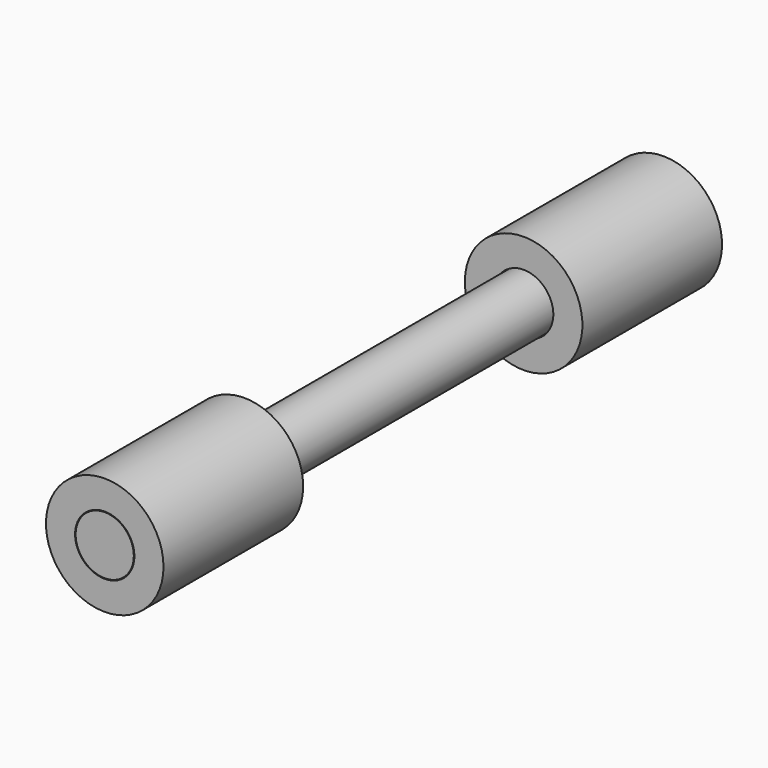
from build123d import *

# Parameters (mm, degrees)
F0_R     = 3.175
F1_DEPTH = 38.1
F2_R     = 6.4135
F2_R_2   = 3.2385
F3_DEPTH = 19.05
F4_R     = 6.4135
F4_R_2   = 3.2385
F5_DEPTH = 19.05


with BuildPart() as f1:
    # F0 (on Front) → F1 (new body, symmetric)
    with BuildSketch(Plane.XZ):
        Circle(F0_R)
    extrude(amount=F1_DEPTH, both=True)


with BuildPart() as f3:
    # F2 (on face) → F3 (new body)
    with BuildSketch(Plane.XZ.offset(38.1)):
        Circle(F2_R)
        Circle(F2_R_2, mode=Mode.SUBTRACT)
    extrude(amount=-F3_DEPTH)


with BuildPart() as f5:
    # F4 (on face) → F5 (new body)
    with BuildSketch(Plane(origin=(0, 38.1, 0), x_dir=(-1, 0, 0), z_dir=(0, 1, 0))):
        Circle(F4_R)
        Circle(F4_R_2, mode=Mode.SUBTRACT)
    extrude(amount=-F5_DEPTH)


solid = Compound([f1.part, f3.part, f5.part])
